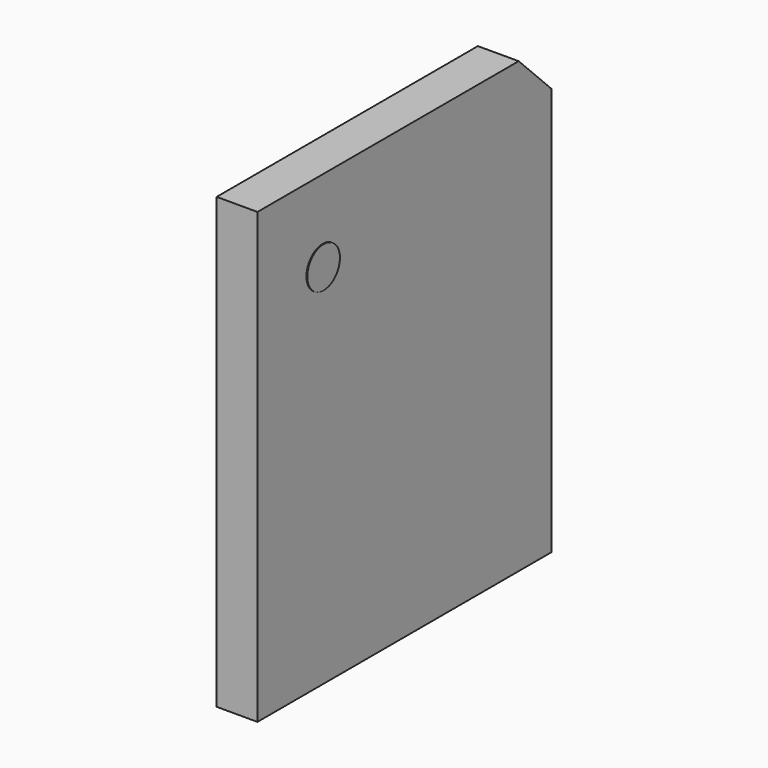
from build123d import *

# Parameters (mm, degrees)
PAD_DEPTH    = 0.5
SKETCH001_R  = 0.25
PAD001_DEPTH = 0.01


with BuildPart() as part:
    # Sketch (on YZ_Plane of Origin) → Pad (new body)
    with BuildSketch(Plane.YZ):
        Polygon((-2.25, -2.75), (2.25, -2.75), (2.25, 2.25), (1.75, 2.75), (-2.25, 2.75), align=None)
    extrude(amount=PAD_DEPTH)

    # Sketch001 (on Face7 of Pad) → Pad001 (join)
    with BuildSketch(Plane.YZ.offset(0.5)):
        with Locations((-1.25, 1.75)):
            Circle(SKETCH001_R)
    extrude(amount=PAD001_DEPTH)


solid = part.part
